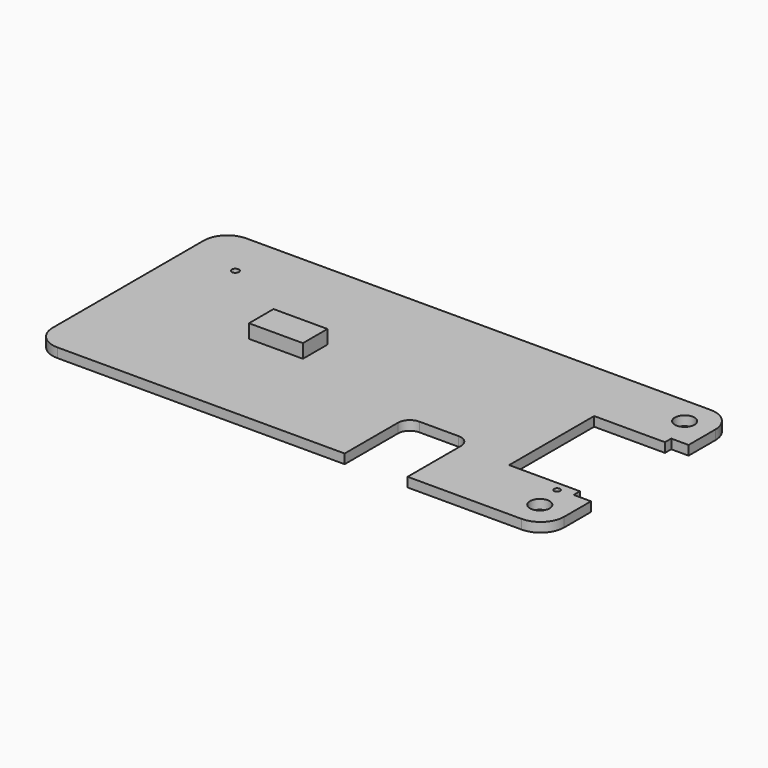
from build123d import *

# Parameters (mm, degrees)
F0_R     = 1.25
F0_R_2   = 0.3788120932
F0_W     = 6.85
F0_H     = 3.9
F0_R_3   = 0.45
F1_DEPTH = 1.2
F2_START = 1.2
F2_DEPTH = 1.75


with BuildPart() as f1:
    # F0 (on Top) → F1 (new body)
    with BuildSketch(Plane.XY):
        with BuildLine():
            Line((30.2496132553, 11.215257898), (-28.7503867447, 11.215257898))
            ThreePointArc((-28.7503867447, 11.215257898), (-30.8717070883, 10.3365782415), (-31.7503867447, 8.215257898))
            Line((-31.7503867447, 8.215257898), (-31.7503867447, -15.784742102))
            ThreePointArc((-31.7503867447, -15.784742102), (-30.8717070883, -17.9060624456), (-28.7503867447, -18.784742102))
            Line((-28.7503867447, -18.784742102), (7.7496132553, -18.784742102))
            Line((7.7496132553, -18.784742102), (7.7496132553, -10.304742102))
            ThreePointArc((7.7496132553, -10.304742102), (8.1889530835, -9.2440819302), (9.2496132553, -8.804742102))
            Line((9.2496132553, -8.804742102), (14.2496132553, -8.804742102))
            ThreePointArc((14.2496132553, -8.804742102), (15.310273427, -9.2440819302), (15.7496132553, -10.304742102))
            Line((15.7496132553, -10.304742102), (15.7496132553, -18.784742102))
            Line((15.7496132553, -18.784742102), (30.2496132553, -18.784742102))
            ThreePointArc((30.2496132553, -18.784742102), (32.3709335988, -17.9060624456), (33.2496132553, -15.784742102))
            Line((33.2496132553, -15.784742102), (33.2496132553, -11.534742102))
            Line((33.2496132553, -11.534742102), (31.0496132553, -11.534742102))
            Line((31.0496132553, -11.534742102), (31.0496132553, -10.534742102))
            Line((31.0496132553, -10.534742102), (22.0496132553, -10.534742102))
            Line((22.0496132553, -10.534742102), (22.0496132553, 2.965257898))
            Line((22.0496132553, 2.965257898), (31.0496132553, 2.965257898))
            Line((31.0496132553, 2.965257898), (31.0496132553, 3.965257898))
            Line((31.0496132553, 3.965257898), (33.2496132553, 3.965257898))
            Line((33.2496132553, 3.965257898), (33.2496132553, 8.215257898))
            ThreePointArc((33.2496132553, 8.215257898), (32.3709335988, 10.3365782415), (30.2496132553, 11.215257898))
        make_face()
        with Locations((29.7496132553, -15.284742102)):
            Circle(F0_R, mode=Mode.SUBTRACT)
        with Locations((29.0996132553, -11.734742102)):
            Circle(F0_R_2, mode=Mode.SUBTRACT)
        with Locations((-11.6226801157, -3.5317809723)):
            Rectangle(F0_W, F0_H, mode=Mode.SUBTRACT)
        with Locations((-25.2503867447, 5.105257898)):
            Circle(F0_R_3, mode=Mode.SUBTRACT)
        with Locations((29.7496132553, 7.715257898)):
            Circle(F0_R, mode=Mode.SUBTRACT)
        with Locations((-11.6226801157, -3.5317809723)):
            Rectangle(F0_W, F0_H)
    extrude(amount=F1_DEPTH)

    # F0 (on Top) → F2 (join)
    with BuildSketch(Plane.XY.offset(F2_START)):
        with Locations((-11.6226801157, -3.5317809723)):
            Rectangle(F0_W, F0_H)
    extrude(amount=F2_DEPTH)


solid = f1.part
